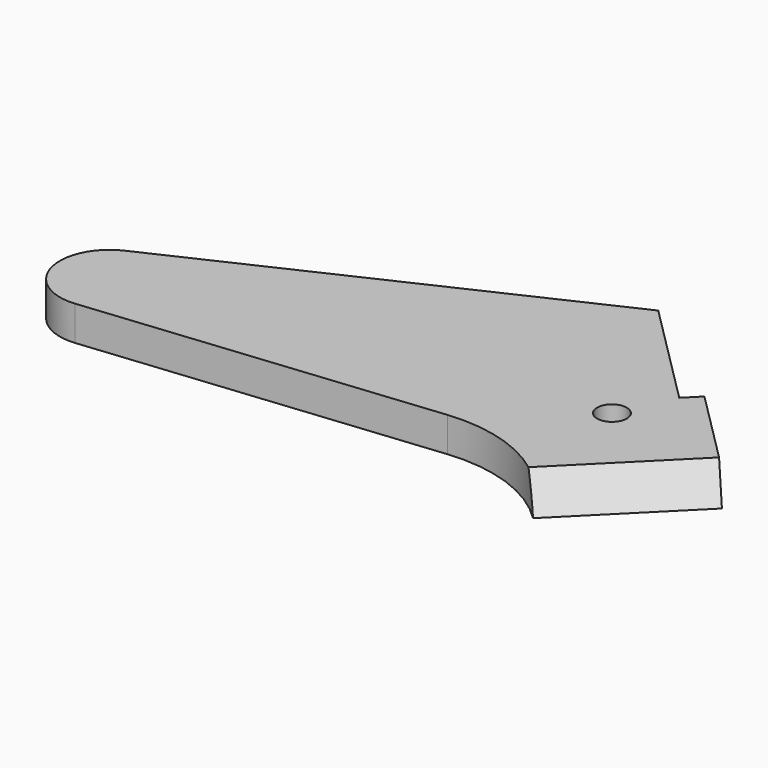
from build123d import *

# Parameters (mm, degrees)
PAD002_DEPTH             = 7
SKETCH025_R              = 3
POCKET018_DEPTH          = 15
POCKET019_DEPTH          = 98.908358
SKETCH028_R              = 3
POCKET021_DEPTH          = 7.001
CLONE002_PLACEMENT_ANGLE = 45


with BuildPart() as part:
    # Sketch023 → Pad002 (new body)
    with BuildSketch(Plane.XY):
        with BuildLine():
            Line((75.261973, 88.907358), (50.261973, 88.907358))
            Line((50.261973, 84.907358), (50.261973, 88.907358))
            Line((50.261973, 84.907358), (20.261973, 84.907358))
            Line((-9.396926, 3.420201), (20.261973, 84.907358))
            ThreePointArc((-9.396926, 3.420201), (-4.942745, -8.693059), (7.744606, -6.326221))
            Line((7.744606, -6.326221), (52.028155, 47.886022))
            ThreePointArc((75.261973, 58.907358), (62.404289, 56.012339), (52.028155, 47.886022))
            Line((75.261973, 88.907358), (75.261973, 58.907358))
        make_face()
    extrude(amount=PAD002_DEPTH)

    # Sketch025 (on Face4 of Pad002) → Pocket018 (cut)
    with BuildSketch(Plane(origin=(0, 84.907358, 0), x_dir=(-1, 0, 0), z_dir=(0, 1, 0))):
        with Locations((-35.261973, 3.5)):
            Circle(SKETCH025_R)
    extrude(amount=-POCKET018_DEPTH, mode=Mode.SUBTRACT)

    # Sketch026 (on Face2 of Pocket018) → Pocket019 (cut, through all)
    with BuildSketch(Plane(origin=(0, 88.907358, 0), x_dir=(-1, 0, 0), z_dir=(0, 1, 0))):
        Polygon((-75.261973, 7), (-75.261973, 0), (-71.220521, 7), align=None)
    extrude(amount=-POCKET019_DEPTH, mode=Mode.SUBTRACT)

    # Sketch028 → Pocket021 (cut, through all)
    with BuildSketch(Plane.XY.offset(7)):
        with Locations((54.303425, 73.770624)):
            Circle(SKETCH028_R)
    extrude(amount=-POCKET021_DEPTH, mode=Mode.SUBTRACT)


with BuildPart() as part_1:
    # Body002 placement: moved
    add(part.part.moved(Location((-250, 0, 0))))


with BuildPart() as part_2:
    # Clone002 placement: moved
    add(part_1.part.moved(Location((276.776695, -55.776695, 0))).rotate(Axis((276.776695, -55.776695, 0), (0, 0, -1)), CLONE002_PLACEMENT_ANGLE))


solid = part_2.part
